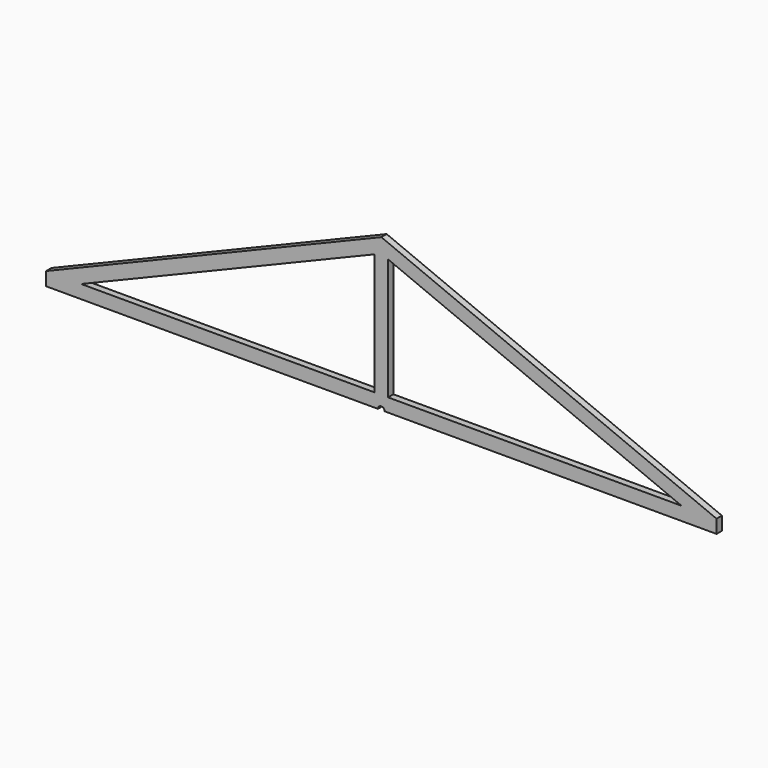
from build123d import *

# Parameters (mm, degrees)
F1_DEPTH = 50


with BuildPart() as f1:
    # F0 (on Front) → F1 (new body)
    with BuildSketch(Plane.XZ):
        Polygon((1798.787785, 1092.306019), (-701.212215, 56.772113), (-439.899622, 56.772113), (1748.787785, 963.356121), (1798.787785, 984.066799), align=None)
        Polygon((1748.787785, 963.356121), (1748.787785, 56.772113), (1798.787785, 56.772113), (1848.787785, 56.772113), (1848.787785, 963.356121), (1798.787785, 984.066799), align=None)
        Polygon((4298.787785, 56.772113), (1798.787785, 1092.306019), (1798.787785, 984.066799), (1848.787785, 963.356121), (4037.475192, 56.772113), align=None)
        with BuildLine():
            Line((-439.899622, 56.772113), (-701.212215, 56.772113))
            Line((-701.212215, 56.772113), (-701.212215, -43.227887))
            Line((-701.212215, -43.227887), (1773.787785, -43.227887))
            ThreePointArc((1773.787785, -43.227887), (1798.787785, -18.227887), (1823.787785, -43.227887))
            Line((1823.787785, -43.227887), (4298.787785, -43.227887))
            Line((4298.787785, -43.227887), (4298.787785, 56.772113))
            Line((4298.787785, 56.772113), (4037.475192, 56.772113))
            Line((4037.475192, 56.772113), (1848.787785, 56.772113))
            Line((1848.787785, 56.772113), (1798.787785, 56.772113))
            Line((1798.787785, 56.772113), (1748.787785, 56.772113))
            Line((1748.787785, 56.772113), (-439.899622, 56.772113))
        make_face()
    extrude(amount=F1_DEPTH)


solid = f1.part
